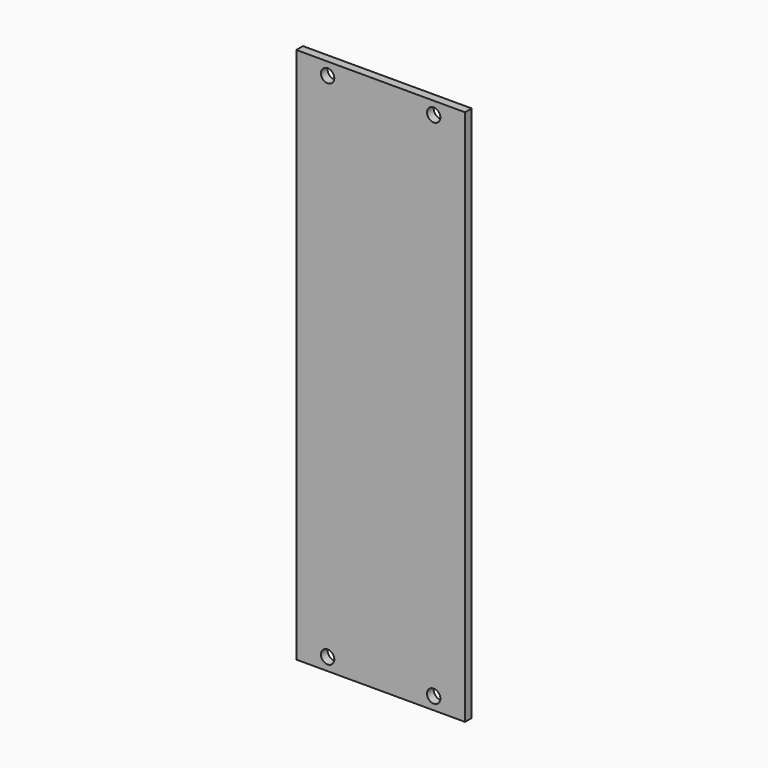
from build123d import *

# Parameters (mm, degrees)
SKETCH_W  = 40.4
SKETCH_H  = 128.5
SKETCH_R  = 1.6
PAD_DEPTH = 2


with BuildPart() as part:
    # Sketch → Pad (new body)
    with BuildSketch(Plane.XZ):
        Rectangle(SKETCH_W, SKETCH_H)
        with Locations((-12.7, 61.25)):
            Circle(SKETCH_R, mode=Mode.SUBTRACT)
        with Locations((12.7, 61.25)):
            Circle(SKETCH_R, mode=Mode.SUBTRACT)
        with Locations((12.7, -61.25)):
            Circle(SKETCH_R, mode=Mode.SUBTRACT)
        with Locations((-12.7, -61.25)):
            Circle(SKETCH_R, mode=Mode.SUBTRACT)
    extrude(amount=PAD_DEPTH)


solid = part.part
